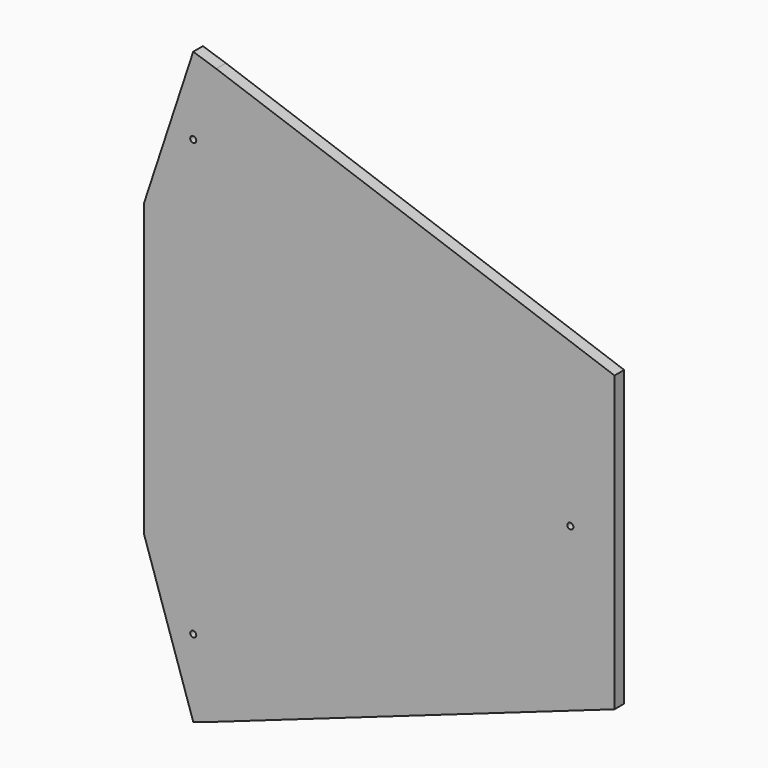
from build123d import *

# Parameters (mm, degrees)
F0_R     = 3.175
F1_DEPTH = 12.7


with BuildPart() as f1:
    # F0 (on Front) → F1 (new body)
    with BuildSketch(Plane.XZ):
        Polygon((24.123377, 301.787994), (0, 309.739262), (-51.860342, 152.4), (-51.860342, -152.4), (0, -309.739262), (24.123377, -301.787994), (442.251015, -154.2542), (442.251015, 154.2542), align=None)
        with Locations((0, -228.6)):
            Circle(F0_R, mode=Mode.SUBTRACT)
        with Locations((395.946815, 0)):
            Circle(F0_R, mode=Mode.SUBTRACT)
        with Locations((0, 228.6)):
            Circle(F0_R, mode=Mode.SUBTRACT)
    extrude(amount=F1_DEPTH)


solid = f1.part
